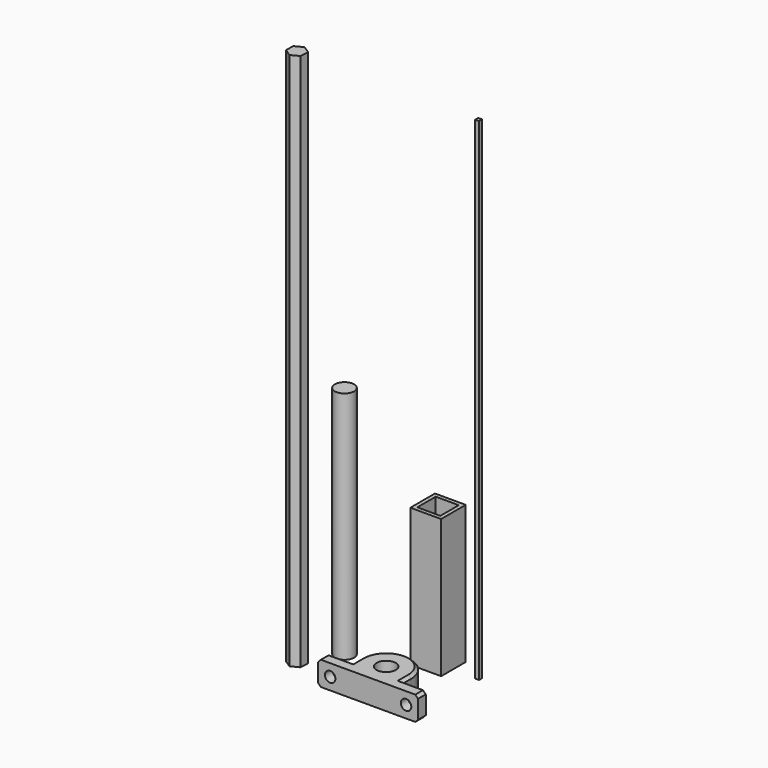
from build123d import *

# Parameters (mm, degrees)
F0_W      = 25.4
F0_H      = 25.4
F0_W_2    = 19.05
F0_H_2    = 19.05
F1_DEPTH  = 114.3
F2_R      = 7.9375
F3_DEPTH  = 193.675
F4_R      = 7.9375
F5_DEPTH  = 19.8628
F6_SIZE   = 2.286
F7_R      = 4.3434
F8_DEPTH  = 25.4
F10_DEPTH = 444.5
F11_W     = 3.175
F11_H     = 3.175
F12_DEPTH = 406.4


with BuildPart() as f1:
    # F0 (on Top) → F1 (new body)
    with BuildSketch(Plane.XY):
        with Locations((12.7, 12.7)):
            Rectangle(F0_W, F0_H)
        with Locations((12.7, 12.7)):
            Rectangle(F0_W_2, F0_H_2, mode=Mode.SUBTRACT)
    extrude(amount=F1_DEPTH)


with BuildPart() as f3:
    # F2 (on Top) → F3 (new body)
    with BuildSketch(Plane.XY):
        with Locations((-42.535778, -14.853209)):
            Circle(F2_R)
    extrude(amount=F3_DEPTH)


with BuildPart() as f5:
    # F4 (on Top) → F5 (new body)
    with BuildSketch(Plane.XY):
        with BuildLine():
            Line((-27.993253, -52.310219), (-27.993253, -60.247719))
            Line((-27.993253, -60.247719), (54.556747, -60.247719))
            Line((54.556747, -60.247719), (54.556747, -52.310219))
            Line((54.556747, -52.310219), (33.665247, -52.310219))
            Line((33.665247, -52.310219), (33.665247, -41.261219))
            ThreePointArc((33.665247, -41.261219), (27.620664, -26.668303), (13.027747, -20.623719))
            ThreePointArc((13.027747, -20.623719), (-1.565169, -26.668303), (-7.609753, -41.261219))
            Line((-7.609753, -41.261219), (-7.609753, -52.310219))
            Line((-7.609753, -52.310219), (-27.993253, -52.310219))
        make_face()
        with Locations((13.027747, -41.261219)):
            Circle(F4_R, mode=Mode.SUBTRACT)
    extrude(amount=F5_DEPTH)

    # F6
    f6_edges = [f5.edges().sort_by_distance(p)[0] for p in [
        (13.027747, -20.623719, 19.8628),
        (-7.609753, -46.785719, 19.8628),
        (33.665247, -46.785719, 19.8628),
        (33.665247, -46.785719, 0),
        (13.027747, -20.623719, 0),
        (-7.609753, -46.785719, 0),
        (54.556747, -56.278969, 0),
        (54.556747, -56.278969, 19.8628),
        (-27.993253, -56.278969, 0),
        (-27.993253, -56.278969, 19.8628),
    ]]
    chamfer(f6_edges, length=F6_SIZE)

    # F7 (on face) → F8 (cut)
    with BuildSketch(Plane(origin=(0, -52.310219, 0), x_dir=(-1, 0, 0), z_dir=(0, 1, 0))):
        with Locations((-44.625347, 9.9314)):
            Circle(F7_R)
        with Locations((18.061853, 9.9314)):
            Circle(F7_R)
    extrude(amount=-F8_DEPTH, mode=Mode.SUBTRACT)


with BuildPart() as f10:
    # F9 (on Top) → F10 (new body)
    with BuildSketch(Plane.XY):
        Polygon((-52.745854, -39.615137), (-58.879709, -35.59778), (-65.425769, -38.901177), (-65.837975, -46.221929), (-59.704119, -50.239286), (-53.158059, -46.93589), align=None)
    extrude(amount=F10_DEPTH)


with BuildPart() as f12:
    # F11 (on Top) → F12 (new body)
    with BuildSketch(Plane.XY):
        with Locations((46.224038, 12.720798)):
            Rectangle(F11_W, F11_H)
    extrude(amount=F12_DEPTH)


solid = Compound([f1.part, f3.part, f5.part, f10.part, f12.part])
